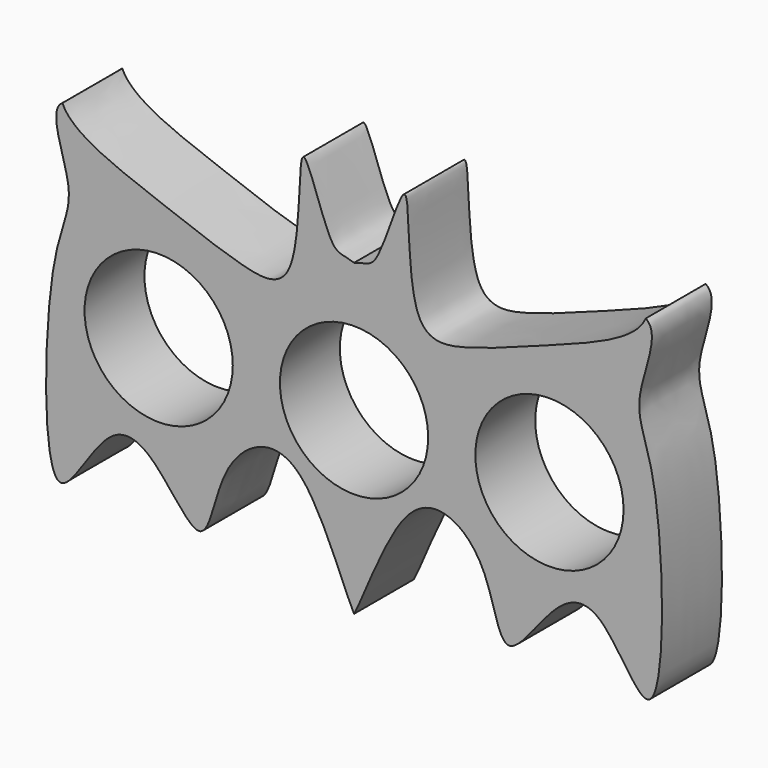
from build123d import *

# Parameters (mm, degrees)
F1_DEPTH = 6.35
F3_SCALE = 1.75
F2_R     = 11
F4_DEPTH = 11.1135001


with BuildPart() as f1:
    # F0 (on Front) → F1 (new body)
    with BuildSketch(Plane.XZ):
        with BuildLine():
            add(Edge.make_bspline(
                [(-24.7329324484, 14.8909715936), (-23.9210684598, 12.9657857477), (-16.7864904723, 10.3578223177), (-10.2299722817, 7.7945481337), (-4.0586908393, 6.5814891318), (-5.2146553416, 22.6937684262), (-2.0573501445, 10.8867089168), (-1.0199998306, 11.3521354244), (0, 11.0033753693)],
                knots=[0, 0, 0, 0, 0.2000434702, 0.3927405992, 0.5309018142, 0.7342096815, 0.9004207333, 1, 1, 1, 1], degree=3))
            add(Edge.make_bspline(
                [(-24.7329324484, 14.8909715936), (-26.0185451481, 14.102255948), (-23.0769253459, 7.9186114516), (-26.244014063, 4.5075442265), (-26.6185640128, -19.6543446351), (-21.1664872681, -7.4079697484), (-16.8839292087, -8.4705684747), (-12.564344029, -15.9937730051), (-11.5708211544, -7.998581909), (-7.9379841528, -4.5889569238), (-3.6006404762, -5.7894574625), (-0.8846944078, -13.5310597416), (0, -15.2089911056)],
                knots=[0, 0, 0, 0, 0.0958262107, 0.195066246, 0.3556063074, 0.4546036446, 0.5306304417, 0.6255719305, 0.7150191579, 0.8012379058, 0.8767197649, 1, 1, 1, 1], degree=3))
            Line((0, -15.2089911056), (0, 11.0033753693))
        make_face()
        with BuildLine():
            add(Edge.make_bspline(
                [(24.7329324484, 14.8909715936), (23.9210684598, 12.9657857477), (16.7864904723, 10.3578223177), (10.2299722817, 7.7945481337), (4.0586908393, 6.5814891318), (5.2146553416, 22.6937684262), (2.0573501445, 10.8867089168), (1.0199998306, 11.3521354244), (0, 11.0033753693)],
                knots=[0, 0, 0, 0, 0.2000434702, 0.3927405992, 0.5309018142, 0.7342096815, 0.9004207333, 1, 1, 1, 1], degree=3))
            Line((0, 11.0033753693), (0, -15.2089911056))
            add(Edge.make_bspline(
                [(24.7329324484, 14.8909715936), (26.0185451481, 14.102255948), (23.0769253459, 7.9186114516), (26.244014063, 4.5075442265), (26.6185640128, -19.6543446351), (21.1664872681, -7.4079697484), (16.8839292087, -8.4705684747), (12.564344029, -15.9937730051), (11.5708211544, -7.998581909), (7.9379841528, -4.5889569238), (3.6006404762, -5.7894574625), (0.8846944078, -13.5310597416), (0, -15.2089911056)],
                knots=[0, 0, 0, 0, 0.0958262107, 0.195066246, 0.3556063074, 0.4546036446, 0.5306304417, 0.6255719305, 0.7150191579, 0.8012379058, 0.8767197649, 1, 1, 1, 1], degree=3))
        make_face()
    extrude(amount=F1_DEPTH)


with BuildPart() as f1_1:
    # F3: moved
    add(f1.part.scale(F3_SCALE))

    # F2 (on Front) → F4 (cut, through all)
    with BuildSketch(Plane.XZ):
        Circle(F2_R)
        with Locations((-29, 0)):
            Circle(F2_R)
        with Locations((29, 0)):
            Circle(F2_R)
    extrude(amount=F4_DEPTH, mode=Mode.SUBTRACT)


solid = f1_1.part
